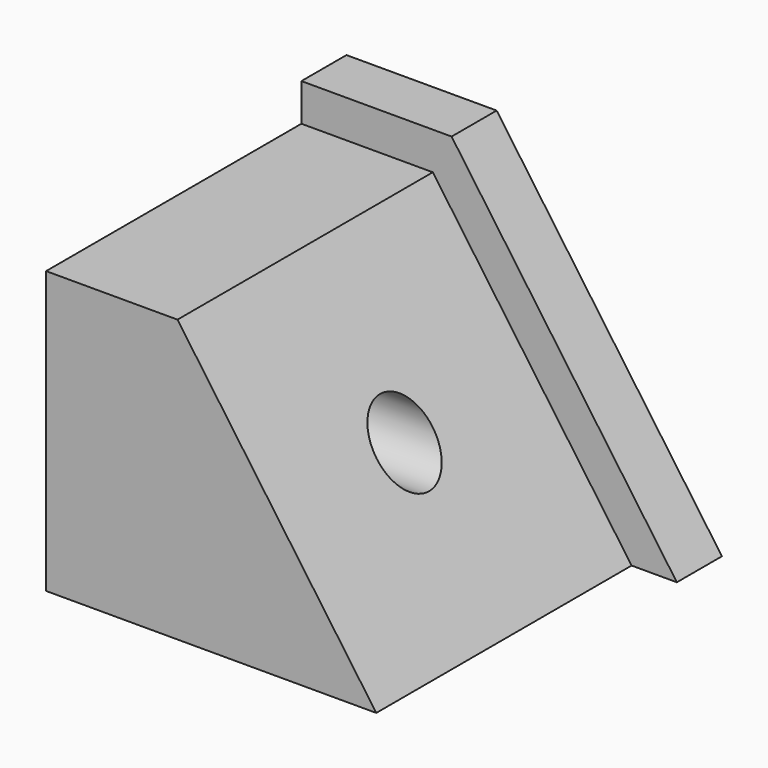
from build123d import *

# Parameters (mm, degrees)
F1_DEPTH = 15
F3_DEPTH = 85
F4_R     = 9.2721053172
F5_DEPTH = 100.001


with BuildPart() as f1:
    # F0 (on Front) → F1 (new body)
    with BuildSketch(Plane.XZ):
        Polygon((-100, 0), (0, 0), (-60, 85), (-100, 85), align=None)
    extrude(amount=F1_DEPTH)

    # F2 (on face) → F3 (join)
    with BuildSketch(Plane.XZ.offset(15)):
        Polygon((-65, 75), (-100, 75), (-100, 0), (-12.0588235294, 0), align=None)
    extrude(amount=F3_DEPTH)

    # F4 (on face) → F5 (cut, through all)
    with BuildSketch(Plane(origin=(-100, 0, 0), x_dir=(0, -1, 0), z_dir=(-1, 0, 0))):
        with Locations((57.5, 37.5)):
            Circle(F4_R)
    extrude(amount=-F5_DEPTH, mode=Mode.SUBTRACT)


solid = f1.part
